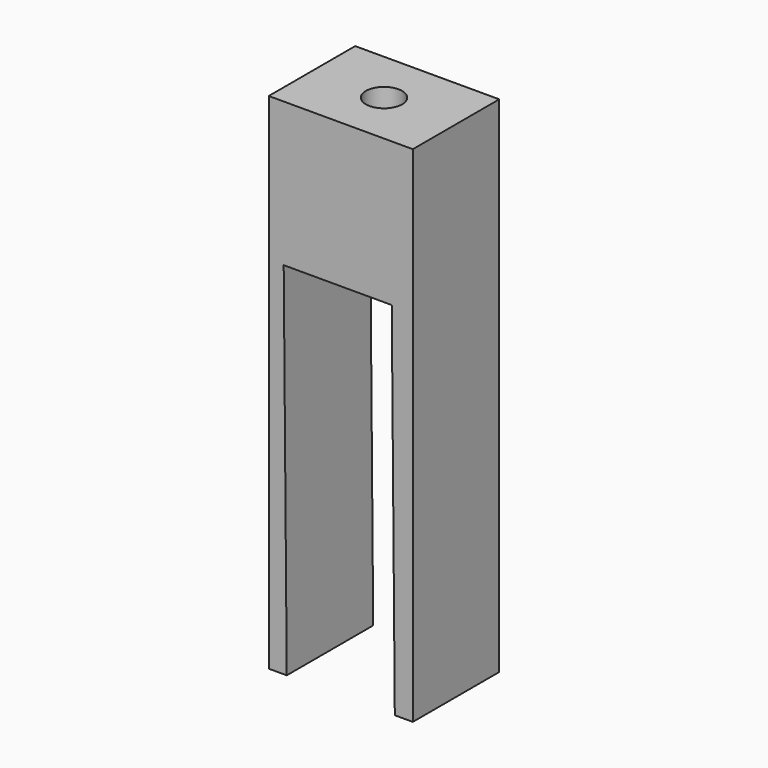
from build123d import *

# Parameters (mm, degrees)
F0_W     = 12.7
F0_H     = 44.45
F1_DEPTH = 9.525
F2_R     = 1.6002
F3_DEPTH = 25.4
F5_DEPTH = 25.4


with BuildPart() as f1:
    # F0 (on Front) → F1 (new body)
    with BuildSketch(Plane.XZ):
        Rectangle(F0_W, F0_H)
    extrude(amount=F1_DEPTH)

    # F2 (on face) → F3 (cut)
    with BuildSketch(Plane.XY.offset(22.225)):
        with Locations((0, -4.7625)):
            Circle(F2_R)
    extrude(amount=-F3_DEPTH, mode=Mode.SUBTRACT)

    # F4 (on face) → F5 (cut)
    with BuildSketch(Plane.XZ.offset(9.525)):
        Polygon((4.7625, -22.225), (4.493098, 9.523857), (-5.031902, 9.523857), (-4.7625, -22.225), align=None)
    extrude(amount=-F5_DEPTH, mode=Mode.SUBTRACT)


solid = f1.part
